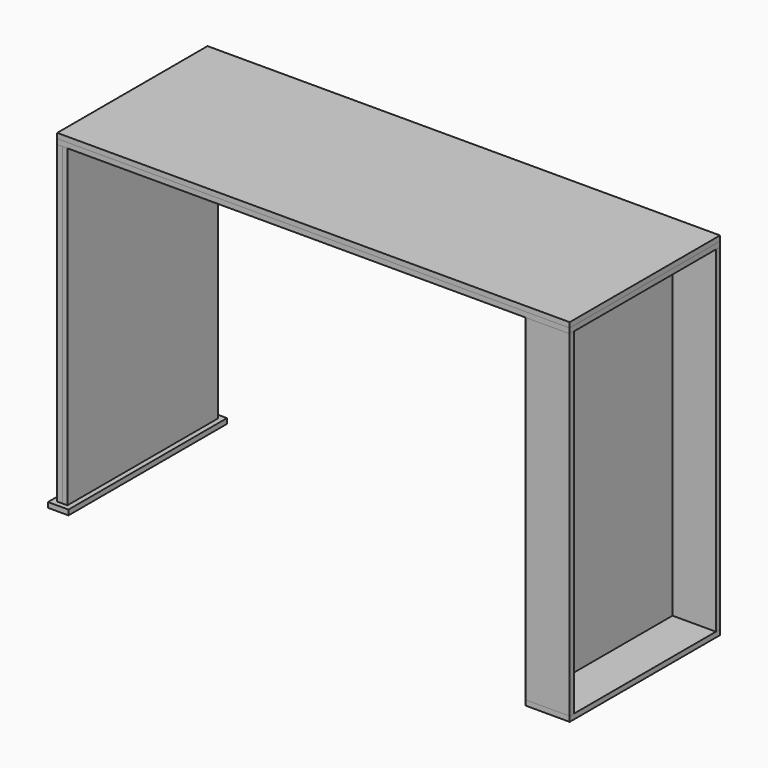
from build123d import *

# Parameters (mm, degrees)
F0_W      = 1500
F0_H      = 550
F1_DEPTH  = 15
F1_FACE_W = 1500
F1_FACE_H = 550
F2_DEPTH  = 15
F3_W      = 15
F3_H      = 550
F4_DEPTH  = 920
F4_FACE_W = 550
F4_FACE_H = 920
F5_DEPTH  = 15
F6_W      = 130
F6_H      = 15
F7_DEPTH  = 985
F8_W      = 130
F8_H      = 550
F9_DEPTH  = 15
F10_W     = 3
F10_H     = 550
F11_DEPTH = 1000
F12_W     = 1340
F12_H     = 15
F13_DEPTH = 150
F14_W     = 60
F14_H     = 580
F15_DEPTH = 15


with BuildPart() as f1:
    # F0 (on Top) → F1 (new body)
    with BuildSketch(Plane.XY):
        Rectangle(F0_W, F0_H)
    extrude(amount=F1_DEPTH)


with BuildPart() as f2:
    # F1_face (on face) → F2 (new body)
    with BuildSketch(Plane.XY.offset(15)):
        Rectangle(F1_FACE_W, F1_FACE_H)
    extrude(amount=F2_DEPTH)


with BuildPart() as f4:
    # F3 (on face) → F4 (new body)
    with BuildSketch(Plane(origin=(0, 0, 0), x_dir=(1, 0, 0), z_dir=(0, 0, -1))):
        with Locations((-742.5, 0)):
            Rectangle(F3_W, F3_H)
    extrude(amount=F4_DEPTH)


with BuildPart() as f5:
    # F4_face (on face) → F5 (new body)
    with BuildSketch(Plane(origin=(-735, 0, -460), x_dir=(0, 1, 0), z_dir=(1, 0, 0))):
        Rectangle(F4_FACE_W, F4_FACE_H)
    extrude(amount=F5_DEPTH)


with BuildPart() as f7:
    # F6 (on face) → F7 (new body)
    with BuildSketch(Plane(origin=(0, 0, 0), x_dir=(1, 0, 0), z_dir=(0, 0, -1))):
        with Locations((685, 267.5)):
            Rectangle(F6_W, F6_H)
        with Locations((685, -267.5)):
            Rectangle(F6_W, F6_H)
    extrude(amount=F7_DEPTH)


with BuildPart() as f9:
    # F8 (on face) → F9 (new body)
    with BuildSketch(Plane(origin=(0, 0, -985), x_dir=(1, 0, 0), z_dir=(0, 0, -1))):
        with Locations((685, 0)):
            Rectangle(F8_W, F8_H)
    extrude(amount=F9_DEPTH)


with BuildPart() as f11:
    # F10 (on face) → F11 (new body)
    with BuildSketch(Plane(origin=(0, 0, 0), x_dir=(1, 0, 0), z_dir=(0, 0, -1))):
        with Locations((621.5, 0)):
            Rectangle(F10_W, F10_H)
    extrude(amount=F11_DEPTH)


with BuildPart() as f13:
    # F12 (on face) → F13 (new body)
    with BuildSketch(Plane(origin=(0, 0, 0), x_dir=(1, 0, 0), z_dir=(0, 0, -1))):
        with Locations((-50, 0)):
            Rectangle(F12_W, F12_H)
    extrude(amount=F13_DEPTH)


with BuildPart() as f15:
    # F14 (on face) → F15 (new body)
    with BuildSketch(Plane(origin=(0, 0, -920), x_dir=(1, 0, 0), z_dir=(0, 0, -1))):
        with Locations((-735, 0)):
            Rectangle(F14_W, F14_H)
    extrude(amount=F15_DEPTH)


solid = Compound([f1.part, f2.part, f4.part, f5.part, f7.part, f9.part, f11.part, f13.part, f15.part])
